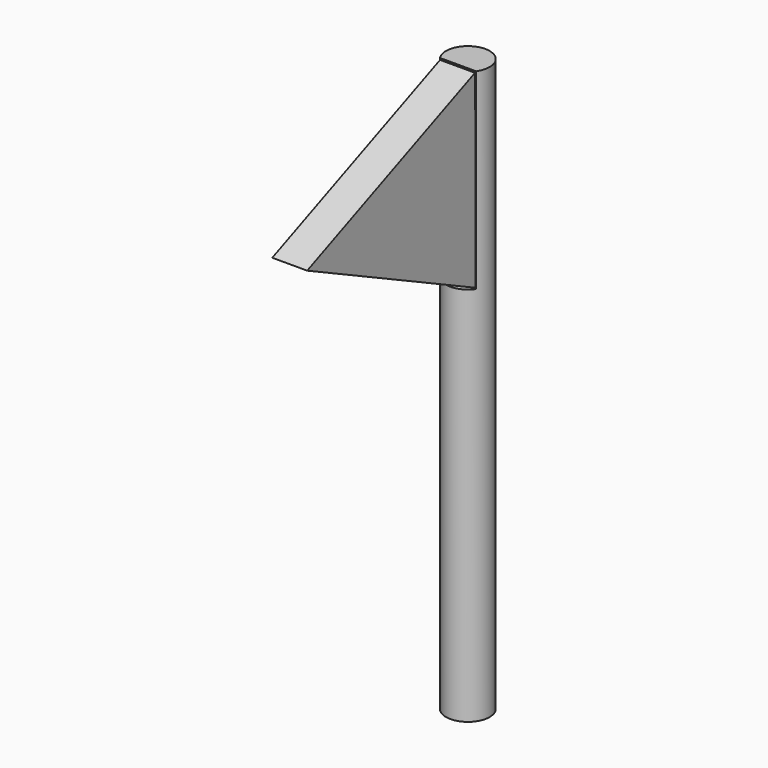
from build123d import *

# Parameters (mm, degrees)
F0_R     = 76.2
F1_DEPTH = 2000
F3_DEPTH = 670
F5_DEPTH = 61


with BuildPart() as f1:
    # F0 (on Top) → F1 (new body)
    with BuildSketch(Plane.XY):
        Circle(F0_R)
    extrude(amount=F1_DEPTH)

    # F2 (on face) → F3 (cut)
    with BuildSketch(Plane.XY.offset(2000)):
        with BuildLine():
            Line((-63.1467790732, -42.6488486677), (-76.2, -42.6488486677))
            Line((-76.2, -42.6488486677), (-76.2, -102.6488486677))
            Line((-76.2, -102.6488486677), (76.2, -102.6488486677))
            Line((76.2, -102.6488486677), (76.2, -42.6488486677))
            Line((76.2, -42.6488486677), (63.1467790732, -42.6488486677))
            ThreePointArc((63.1467790732, -42.6488486677), (0, -76.2), (-63.1467790732, -42.6488486677))
        make_face()
        with BuildLine():
            Line((63.1467790732, -42.6488486677), (-63.1467790732, -42.6488486677))
            ThreePointArc((-63.1467790732, -42.6488486677), (0, -76.2), (63.1467790732, -42.6488486677))
        make_face()
    extrude(amount=-F3_DEPTH, mode=Mode.SUBTRACT)

    # F4 (on Right) → F5 (join, symmetric)
    with BuildSketch(Plane.YZ):
        Polygon((-37.8018170595, 1330.9504985809), (-45.1709479094, 1995.6457614899), (-778.1082391739, 1684.8677396774), align=None)
    extrude(amount=F5_DEPTH, both=True)


solid = f1.part
